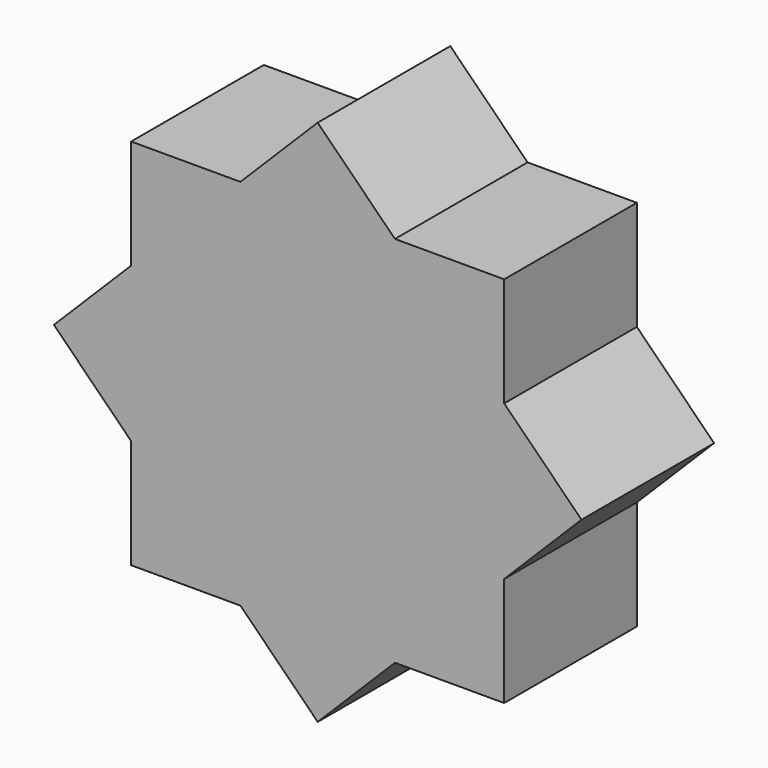
from build123d import *

# Parameters (mm, degrees)
F2_DEPTH = 8


with BuildPart() as f2:
    # F1 (on face) → F2 (new body)
    with BuildSketch(Plane.XZ):
        Polygon((-9, 3.7279220614), (-3.7279220614, 9), (-9, 9), align=None)
        Polygon((9, 3.7279220614), (9, 9), (3.7279220614, 9), align=None)
        Polygon((-3.7279220614, 9), (3.7279220614, 9), (0, 12.7279220614), align=None)
        Polygon((-9, -3.7279220614), (-9, 3.7279220614), (-12.7279220614, 0), align=None)
        Polygon((-3.7279220614, -9), (-9, -3.7279220614), (-9, -9), align=None)
        Polygon((0, -12.7279220614), (3.7279220614, -9), (-3.7279220614, -9), align=None)
        Polygon((9, -9), (9, -3.7279220614), (3.7279220614, -9), align=None)
        Polygon((12.7279220614, 0), (9, 3.7279220614), (9, -3.7279220614), align=None)
        Polygon((9, 3.7279220614), (3.7279220614, 9), (-3.7279220614, 9), (-9, 3.7279220614), (-9, -3.7279220614), (-3.7279220614, -9), (3.7279220614, -9), (9, -3.7279220614), align=None)
    extrude(amount=F2_DEPTH)


solid = f2.part
